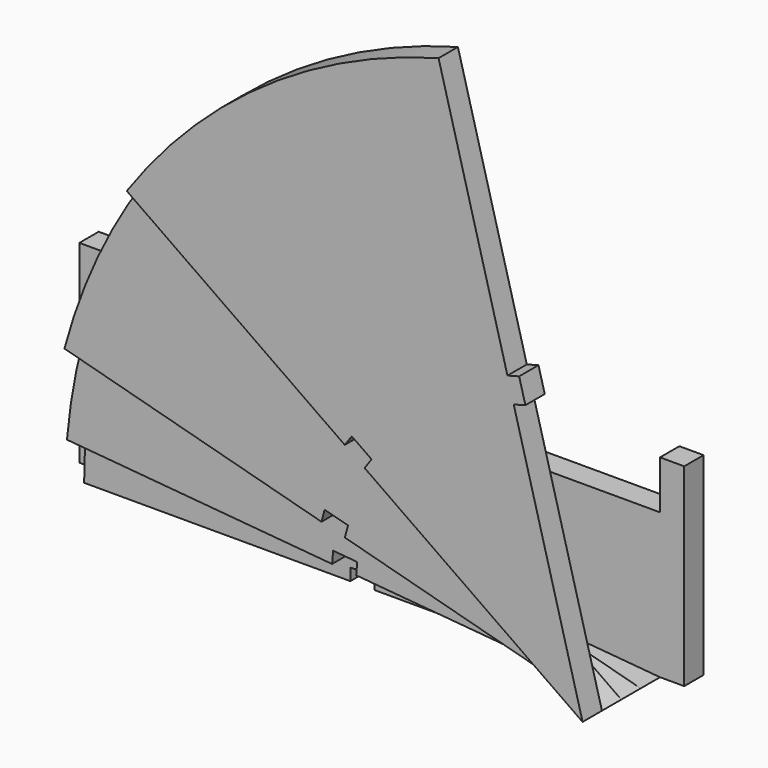
from build123d import *

# Parameters (mm, degrees)
F1_DEPTH = 25.4
F2_DEPTH = 50.8
F4_DEPTH = 25.4
F6_DEPTH = 25.4
F8_DEPTH = 25.4


with BuildPart() as f1:
    # F0 (on Front) → F1 (new body)
    with BuildSketch(Plane.XZ):
        with BuildLine():
            Line((-127.475058, 149.123092), (-127.475058, -54.076908))
            Line((-127.475058, -54.076908), (-102.075058, -54.076908))
            ThreePointArc((-102.075058, -54.076908), (-101.519029, -28.594462), (-99.852001, -3.160523))
            Line((-99.852001, -3.160523), (178.484798, -27.511838))
            Line((178.484798, -27.511838), (179.591676, -14.860165))
            Line((179.591676, -14.860165), (204.895021, -17.073921))
            Line((204.895021, -17.073921), (203.788143, -29.725593))
            Line((203.788143, -29.725593), (482.124942, -54.076908))
            Line((482.124942, -54.076908), (507.524942, -54.076908))
            Line((507.524942, -54.076908), (507.524942, 149.123092))
            Line((507.524942, 149.123092), (482.124942, 149.123092))
            Line((482.124942, 149.123092), (482.124942, 98.323092))
            Line((482.124942, 98.323092), (202.724942, 98.323092))
            Line((202.724942, 98.323092), (202.724942, 111.023092))
            Line((202.724942, 111.023092), (177.324942, 111.023092))
            Line((177.324942, 111.023092), (177.324942, 98.323092))
            Line((177.324942, 98.323092), (-102.075058, 98.323092))
            Line((-102.075058, 98.323092), (-102.075058, 149.123092))
            Line((-102.075058, 149.123092), (-127.475058, 149.123092))
        make_face()
        with BuildLine():
            ThreePointArc((-99.852001, -3.160523), (-101.519029, -28.594462), (-102.075058, -54.076908))
            Line((-102.075058, -54.076908), (177.324942, -54.076908))
            Line((177.324942, -54.076908), (177.324942, -41.376908))
            Line((177.324942, -41.376908), (202.724942, -41.376908))
            Line((202.724942, -41.376908), (202.724942, -54.076908))
            Line((202.724942, -54.076908), (482.124942, -54.076908))
            Line((482.124942, -54.076908), (203.788143, -29.725593))
            Line((203.788143, -29.725593), (204.895021, -17.073921))
            Line((204.895021, -17.073921), (179.591676, -14.860165))
            Line((179.591676, -14.860165), (178.484798, -27.511838))
            Line((178.484798, -27.511838), (-99.852001, -3.160523))
        make_face()
    extrude(amount=F1_DEPTH)


with BuildPart() as f2:
    # F0 (on Front) → F2 (new body)
    with BuildSketch(Plane.XZ):
        with BuildLine():
            ThreePointArc((-99.852001, -3.160523), (-101.519029, -28.594462), (-102.075058, -54.076908))
            Line((-102.075058, -54.076908), (177.324942, -54.076908))
            Line((177.324942, -54.076908), (177.324942, -41.376908))
            Line((177.324942, -41.376908), (202.724942, -41.376908))
            Line((202.724942, -41.376908), (202.724942, -54.076908))
            Line((202.724942, -54.076908), (482.124942, -54.076908))
            Line((482.124942, -54.076908), (203.788143, -29.725593))
            Line((203.788143, -29.725593), (204.895021, -17.073921))
            Line((204.895021, -17.073921), (179.591676, -14.860165))
            Line((179.591676, -14.860165), (178.484798, -27.511838))
            Line((178.484798, -27.511838), (-99.852001, -3.160523))
        make_face()
    extrude(amount=F2_DEPTH)


with BuildPart() as f4:
    # F3 (on face) → F4 (new body)
    with BuildSketch(Plane.XZ.offset(50.8)):
        with BuildLine():
            ThreePointArc((-82.168926, 97.125178), (-93.199748, 47.368357), (-99.852001, -3.160523))
            Line((-99.852001, -3.160523), (178.484798, -27.511838))
            Line((178.484798, -27.511838), (179.591676, -14.860165))
            Line((179.591676, -14.860165), (204.895021, -17.073921))
            Line((204.895021, -17.073921), (203.788143, -29.725593))
            Line((203.788143, -29.725593), (482.124942, -54.076908))
            Line((482.124942, -54.076908), (212.245266, 18.237133))
            Line((212.245266, 18.237133), (215.532268, 30.504391))
            Line((215.532268, 30.504391), (190.997752, 37.078395))
            Line((190.997752, 37.078395), (187.71075, 24.811137))
            Line((187.71075, 24.811137), (-82.168926, 97.125178))
        make_face()
    extrude(amount=F4_DEPTH)


with BuildPart() as f6:
    # F5 (on face) → F6 (new body)
    with BuildSketch(Plane.XZ.offset(76.2)):
        with BuildLine():
            Line((215.532268, 30.504391), (212.245266, 18.237133))
            Line((212.245266, 18.237133), (482.124942, -54.076908))
            Line((482.124942, -54.076908), (253.253861, 106.180348))
            Line((253.253861, 106.180348), (260.538281, 116.583579))
            Line((260.538281, 116.583579), (239.731819, 131.152421))
            Line((239.731819, 131.152421), (232.447399, 120.74919))
            Line((232.447399, 120.74919), (3.576317, 281.006446))
            ThreePointArc((3.576317, 281.006446), (-47.340067, 192.81668), (-82.168926, 97.125178))
            Line((-82.168926, 97.125178), (187.71075, 24.811137))
            Line((187.71075, 24.811137), (190.997752, 37.078395))
            Line((190.997752, 37.078395), (215.532268, 30.504391))
        make_face()
    extrude(amount=F6_DEPTH)


with BuildPart() as f8:
    # F7 (on face) → F8 (new body)
    with BuildSketch(Plane.XZ.offset(101.6)):
        with BuildLine():
            Line((232.447399, 120.74919), (239.731819, 131.152421))
            Line((239.731819, 131.152421), (260.538281, 116.583579))
            Line((260.538281, 116.583579), (253.253861, 106.180348))
            Line((253.253861, 106.180348), (482.124942, -54.076908))
            Line((482.124942, -54.076908), (409.810901, 215.802768))
            Line((409.810901, 215.802768), (422.078159, 219.08977))
            Line((422.078159, 219.08977), (415.504155, 243.624286))
            Line((415.504155, 243.624286), (403.236897, 240.337284))
            Line((403.236897, 240.337284), (330.922856, 510.21696))
            ThreePointArc((330.922856, 510.21696), (147.041588, 424.471716), (3.576317, 281.006446))
            Line((3.576317, 281.006446), (232.447399, 120.74919))
        make_face()
    extrude(amount=F8_DEPTH)


solid = Compound([f1.part, f2.part, f4.part, f6.part, f8.part])
